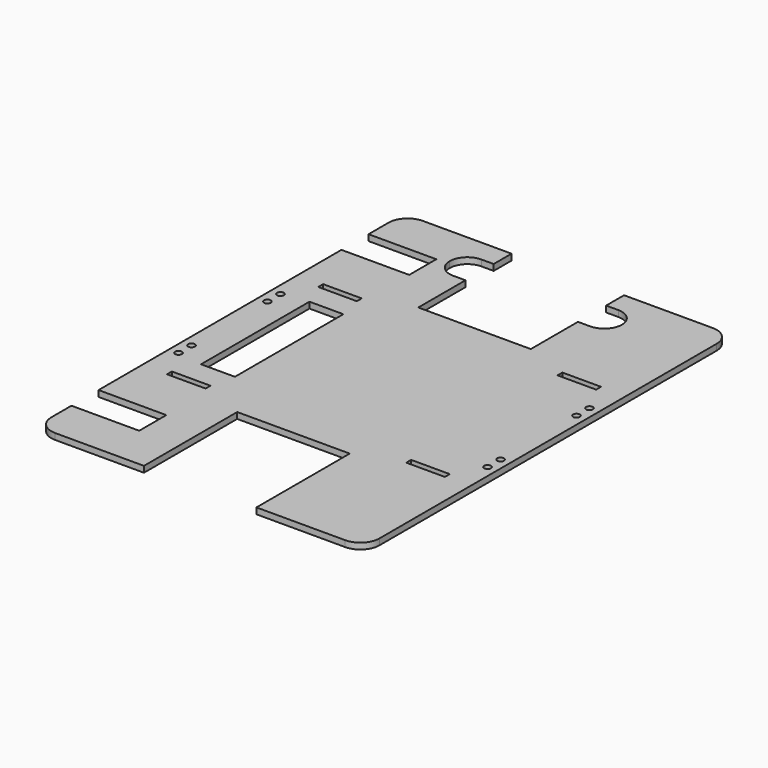
from build123d import *

# Parameters (mm, degrees)
F1_DEPTH = 4.5
F2_W     = 28.5
F2_H     = 4.5
F2_R     = 2.5
F2_W_2   = 25
F2_H_2   = 100
F2_W_3   = 50
F2_H_3   = 25
F2_W_4   = 83
F2_H_4   = 86
F3_DEPTH = 25


with BuildPart() as f1:
    # F0 (on Top) → F1 (new body)
    with BuildSketch(Plane.XY):
        with BuildLine():
            Line((104.879995, 146.808884), (-109.120005, 146.808884))
            ThreePointArc((-109.120005, 146.808884), (-119.0195, 142.708379), (-123.120005, 132.808884))
            Line((-123.120005, 132.808884), (-123.120005, -178.191116))
            ThreePointArc((-123.120005, -178.191116), (-119.0195, -188.090611), (-109.120005, -192.191116))
            Line((-109.120005, -192.191116), (104.879995, -192.191116))
            ThreePointArc((104.879995, -192.191116), (114.77949, -188.090611), (118.879995, -178.191116))
            Line((118.879995, -178.191116), (118.879995, 132.808884))
            ThreePointArc((118.879995, 132.808884), (114.77949, 142.708379), (104.879995, 146.808884))
        make_face()
        with BuildLine():
            ThreePointArc((-65.620005, 117.308884), (-61.812393, 126.501272), (-52.620005, 130.308884))
            Line((-52.620005, 130.308884), (48.379995, 130.308884))
            ThreePointArc((48.379995, 130.308884), (57.572383, 126.501272), (61.379995, 117.308884))
            ThreePointArc((61.379995, 117.308884), (57.572383, 108.116496), (48.379995, 104.308884))
            Line((48.379995, 104.308884), (-52.620005, 104.308884))
            ThreePointArc((-52.620005, 104.308884), (-61.812393, 108.116496), (-65.620005, 117.308884))
        make_face(mode=Mode.SUBTRACT)
    extrude(amount=F1_DEPTH)

    # F2 (on face) → F3 (cut)
    with BuildSketch(Plane.XY.offset(4.5)):
        with Locations((-90.370005, 47.058884)):
            Rectangle(F2_W, F2_H)
        with Locations((-116.120005, 24.308884)):
            Circle(F2_R)
        with Locations((-116.120005, 12.308884)):
            Circle(F2_R)
        with Locations((-116.120005, -57.691116)):
            Circle(F2_R)
        with Locations((-116.120005, -69.691116)):
            Circle(F2_R)
        with Locations((-90.370005, -92.441116)):
            Rectangle(F2_W, F2_H)
        with Locations((86.129995, 47.058884)):
            Rectangle(F2_W, F2_H)
        with Locations((86.129995, -92.441116)):
            Rectangle(F2_W, F2_H)
        with Locations((111.879995, 24.308884)):
            Circle(F2_R)
        with Locations((111.879995, 12.308884)):
            Circle(F2_R)
        with Locations((111.879995, -57.691116)):
            Circle(F2_R)
        with Locations((111.879995, -69.691116)):
            Circle(F2_R)
        with Locations((-84.620005, -22.691116)):
            Rectangle(F2_W_2, F2_H_2)
        with Locations((-98.120005, 101.808884)):
            Rectangle(F2_W_3, F2_H_3)
        with Locations((-98.120005, -147.191116)):
            Rectangle(F2_W_3, F2_H_3)
        with Locations((-2.120005, 103.808884)):
            Rectangle(F2_W_4, F2_H_4)
        with Locations((-2.120005, -149.191116)):
            Rectangle(F2_W_4, F2_H_4)
    extrude(amount=-F3_DEPTH, mode=Mode.SUBTRACT)


solid = f1.part
